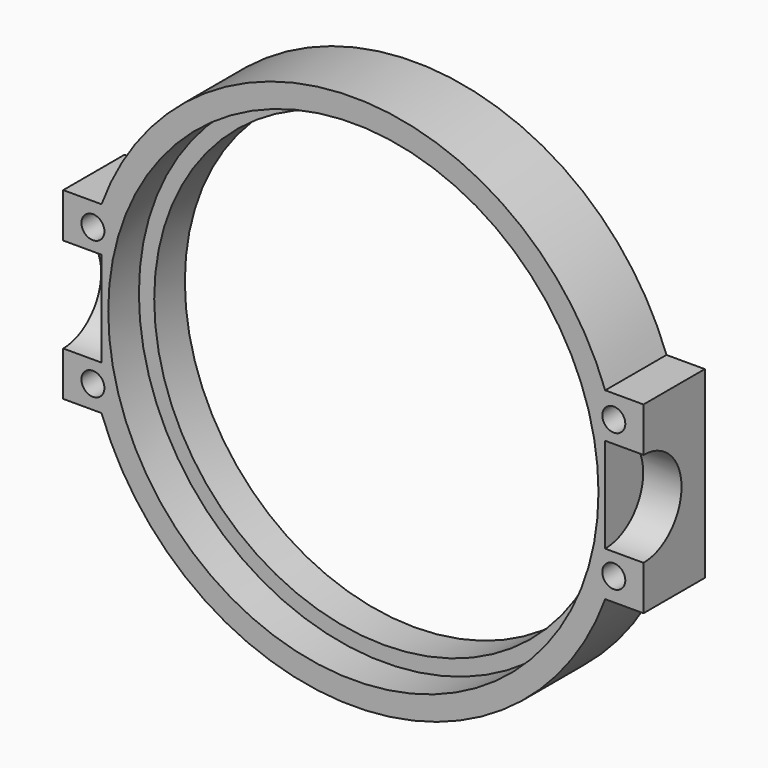
from build123d import *

# Parameters (mm, degrees)
F0_R     = 15
F1_DEPTH = 5
F2_R     = 16
F2_R_2   = 15
F3_DEPTH = 2.5
F5_DEPTH = 2.5
F7_DEPTH = 2.5
F9_D     = 1.5


with BuildPart() as f1:
    # F0 (on Front) → F1 (new body)
    with BuildSketch(Plane.XZ):
        with BuildLine():
            Line((-18.939282, -6), (-16.439282, -6))
            ThreePointArc((-16.439282, -6), (0, -17.5), (16.439282, -6))
            Line((16.439282, -6), (18.939282, -6))
            Line((18.939282, -6), (18.939282, 6))
            Line((18.939282, 6), (16.439282, 6))
            ThreePointArc((16.439282, 6), (0, 17.5), (-16.439282, 6))
            Line((-16.439282, 6), (-18.939282, 6))
            Line((-18.939282, 6), (-18.939282, -6))
        make_face()
        Circle(F0_R, mode=Mode.SUBTRACT)
    extrude(amount=F1_DEPTH)

    # F2 (on face) → F3 (cut)
    with BuildSketch(Plane.XZ.offset(5)):
        Circle(F2_R)
        Circle(F2_R_2, mode=Mode.SUBTRACT)
    extrude(amount=-F3_DEPTH, mode=Mode.SUBTRACT)

    # F4 (on face) → F5 (cut)
    with BuildSketch(Plane(origin=(-18.939282, 0, 0), x_dir=(0, -1, 0), z_dir=(-1, 0, 0))):
        with BuildLine():
            Line((5, -3.1), (5, 3.1))
            ThreePointArc((5, 3.1), (1.9, 0), (5, -3.1))
        make_face()
    extrude(amount=-F5_DEPTH, mode=Mode.SUBTRACT)

    # F6 (on face) → F7 (cut)
    with BuildSketch(Plane.YZ.offset(18.939282)):
        with BuildLine():
            ThreePointArc((-5, -3.1), (-1.9, 0), (-5, 3.1))
            Line((-5, 3.1), (-5, -3.1))
        make_face()
    extrude(amount=-F7_DEPTH, mode=Mode.SUBTRACT)

    # F9 (through all)
    with Locations(Plane(origin=(0, 0, 0), x_dir=(1, 0, 0), z_dir=(0, 1, 0))):
        with Locations((-17, 4.5), (-17, -4.5), (17, -4.5), (17, 4.5)):
            Hole(F9_D / 2)


solid = f1.part
